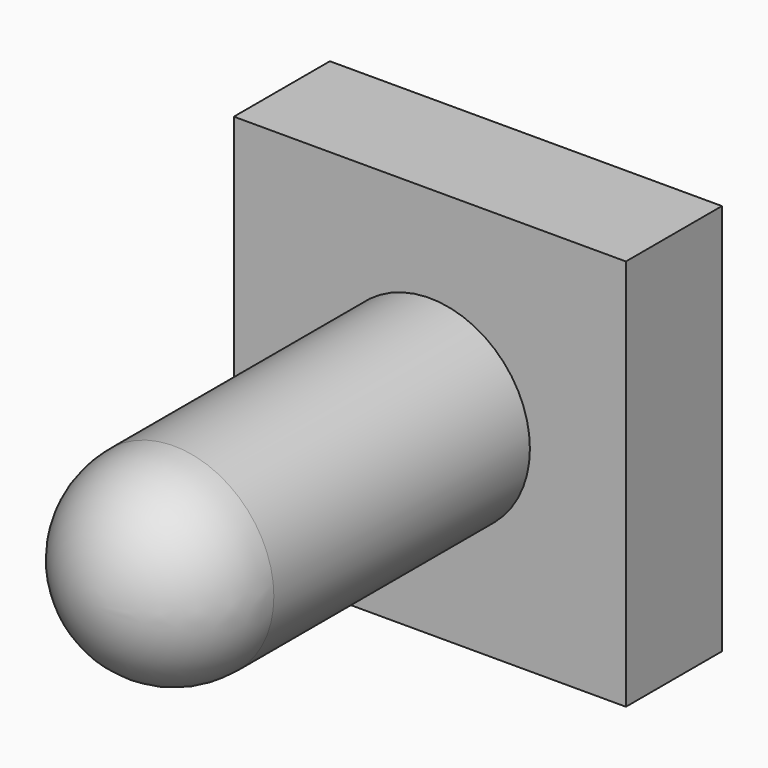
from build123d import *

# Parameters (mm, degrees)
F0_W     = 9.8
F0_H     = 9.8
F0_R     = 2.5
F1_DEPTH = 1.5
F2_DEPTH = 12
F3_R     = 2.5


with BuildPart() as f1:
    # F0 (on Front) → F1 (new body, symmetric)
    with BuildSketch(Plane.XZ):
        Rectangle(F0_W, F0_H)
        Circle(F0_R, mode=Mode.SUBTRACT)
        Circle(F0_R)
    extrude(amount=F1_DEPTH, both=True)

    # F0 (on Front) → F2 (join)
    with BuildSketch(Plane.XZ):
        Circle(F0_R)
    extrude(amount=F2_DEPTH)

    # F3
    f3_edges = [f1.edges().sort_by_distance(p)[0] for p in [
        (-2.5, -12, 0),
    ]]
    fillet(f3_edges, radius=F3_R)


solid = f1.part
